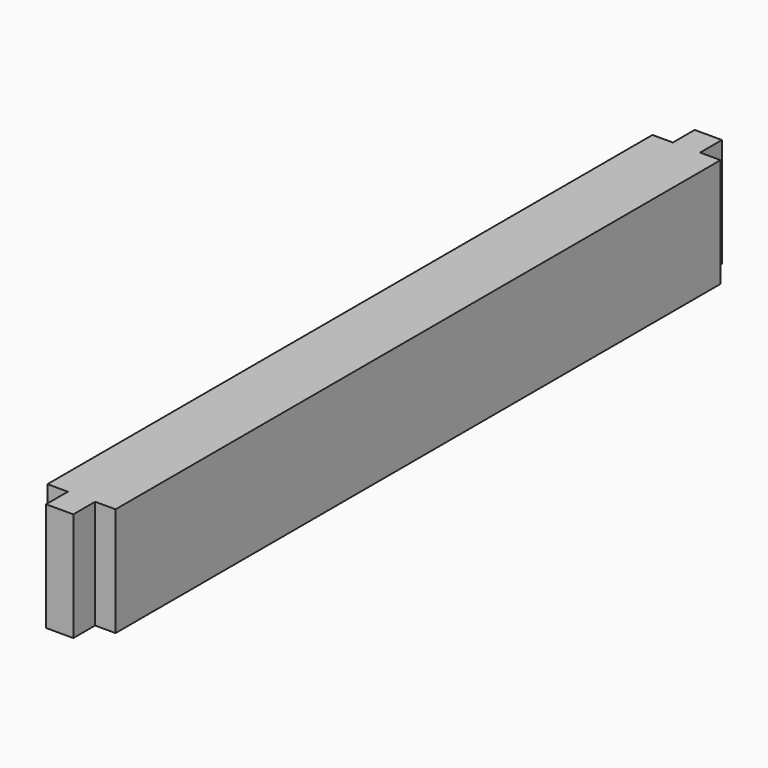
from build123d import *

# Parameters (mm, degrees)
F0_W     = 12.7
F0_H     = 50.77157
F1_DEPTH = 12.7
F2_DEPTH = 365.125
F3_DEPTH = 352.425


with BuildPart() as f1:
    # F0 (on Front) → F1 (new body)
    with BuildSketch(Plane.XZ):
        with Locations((-9.980159, 8.597515)):
            Rectangle(F0_W, F0_H)
    extrude(amount=F1_DEPTH)

    # F0 (on Front) → F2 (join)
    with BuildSketch(Plane.XZ):
        with Locations((-9.980159, 8.597515)):
            Rectangle(F0_W, F0_H)
    extrude(amount=-F2_DEPTH)

    # F0 (on Front) → F3 (join)
    with BuildSketch(Plane.XZ):
        Polygon((-16.330159, 33.9833), (-25.855159, 33.9833), (-25.855159, -16.8167), (5.894841, -16.8167), (5.894841, 33.9833), (-3.630159, 33.9833), (-3.630159, -16.78827), (-16.330159, -16.78827), align=None)
    extrude(amount=-F3_DEPTH)


solid = f1.part
